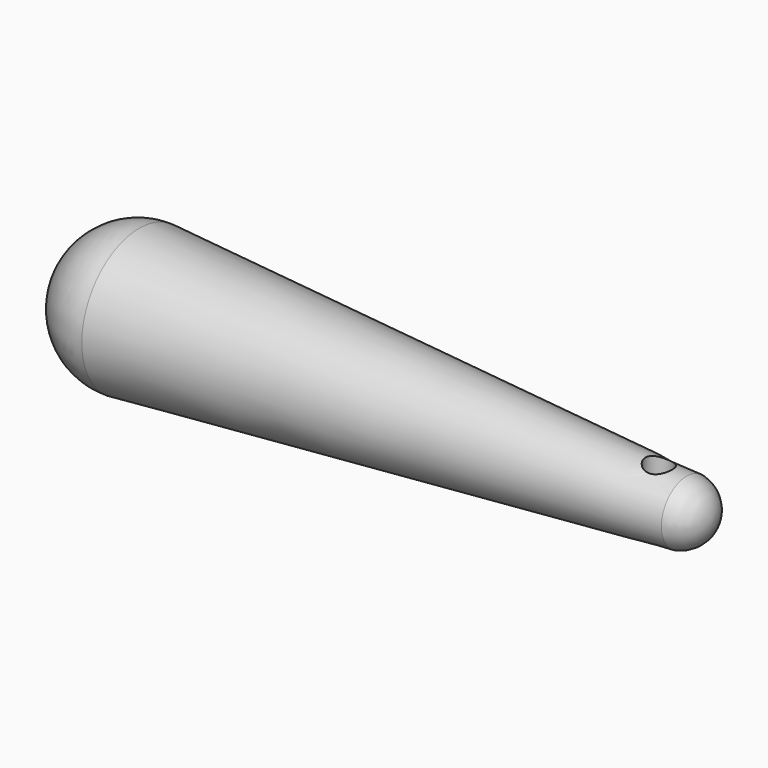
from build123d import *

# Parameters (mm, degrees)
F3_R     = 2.216329
F4_DEPTH = 62.674295


with BuildPart() as f1:
    # F0 (on Top) → F1 (revolve)
    with BuildSketch(Plane.XY):
        with BuildLine():
            Line((57.897013, 0), (-49.266693, 0))
            ThreePointArc((-49.266693, 0), (-45.704721, -8.479212), (-37.155978, -11.870921))
            Line((-37.155978, -11.870921), (53.537849, -5.223205))
            ThreePointArc((53.537849, -5.223205), (56.664045, -3.401624), (57.897013, 0))
        make_face()
    revolve(axis=Axis((4.31516, 0, 0), (1, 0, 0)))

    # F3 (on offset) → F4 (cut, through all)
    with BuildSketch(Plane.XY.offset(-50.8)):
        with Locations((48.930041, 0)):
            Circle(F3_R)
    extrude(amount=F4_DEPTH, mode=Mode.SUBTRACT)


solid = f1.part
